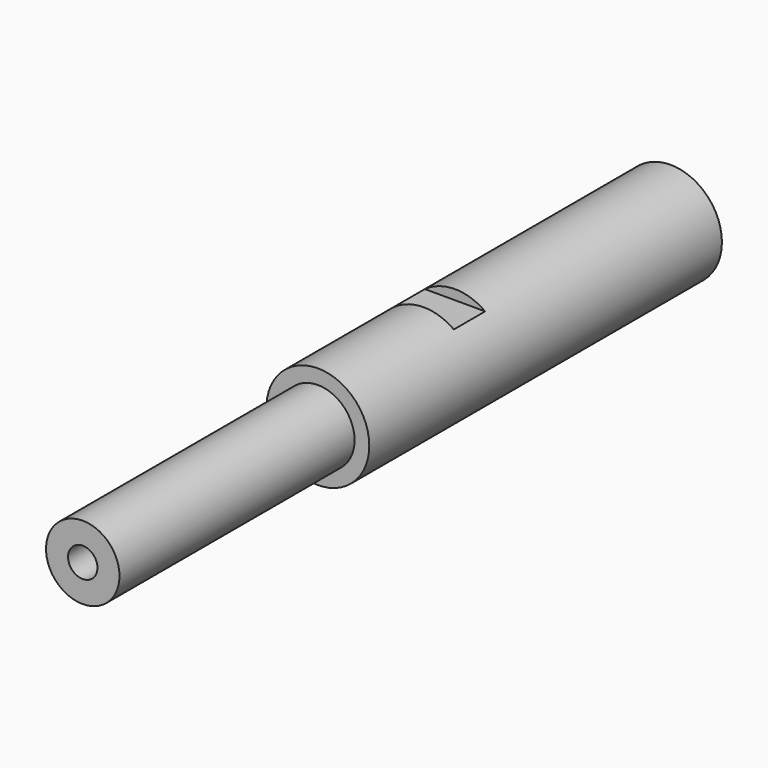
from build123d import *

# Parameters (mm, degrees)
F0_R      = 10.5
F1_DEPTH  = 90
F2_R      = 7.5
F3_DEPTH  = 60
F5_D      = 6
F6_R      = 4.75
F6_R_2    = 3
F7_DEPTH  = 50
F8_R      = 6.45
F9_DEPTH  = 21
F10_R     = 9.2
F11_DEPTH = 1.75
F12_W     = 8.1
F12_H     = 2.2
F13_DEPTH = 3.25
F15_W     = 49.0491833104
F15_H     = 8
F16_DEPTH = 2
F18_W     = 39.7552206603
F18_H     = 8
F19_DEPTH = 2
F22_D     = 3.3
F22_DEPTH = 10
F22_TIP   = 0.9914200214


with BuildPart() as f1:
    # F0 (on Front) → F1 (new body)
    with BuildSketch(Plane.XZ):
        Circle(F0_R)
    extrude(amount=F1_DEPTH)

    # F2 (on face) → F3 (join)
    with BuildSketch(Plane.XZ.offset(90)):
        Circle(F2_R)
    extrude(amount=F3_DEPTH)

    # F5 (through all)
    with Locations(Plane.XZ.offset(150)):
        with Locations((0, 0)):
            Hole(F5_D / 2)

    # F6 (on face) → F7 (cut)
    with BuildSketch(Plane(origin=(0, 0, 0), x_dir=(-1, 0, 0), z_dir=(0, 1, 0))):
        Circle(F6_R)
        Circle(F6_R_2, mode=Mode.SUBTRACT)
    extrude(amount=-F7_DEPTH, mode=Mode.SUBTRACT)

    # F8 (on face) → F9 (cut)
    with BuildSketch(Plane(origin=(0, 0, 0), x_dir=(-1, 0, 0), z_dir=(0, 1, 0))):
        Circle(F8_R)
    extrude(amount=-F9_DEPTH, mode=Mode.SUBTRACT)

    # F10 (on Front) → F11 (cut)
    with BuildSketch(Plane.XZ):
        Circle(F10_R)
    extrude(amount=F11_DEPTH, mode=Mode.SUBTRACT)

    # F12 (on Front) → F13 (cut)
    with BuildSketch(Plane.XZ):
        Polygon((1.0996337654, -1.1), (1.0996337654, 0), (1.0996337654, 1.1), (0, 1.1), (-1.1, 1.1), (-1.1, -1.1), (0, -1.1), align=None)
        Polygon((1.0996337654, 1.1), (1.0996337654, 0), (1.0996337654, -1.1), (9.2, -1.1), (9.2, 1.1), align=None)
        Polygon((0, 1.1), (1.0996337654, 1.1), (1.0996337654, 9.2), (-1.1, 9.2), (-1.1, 1.1), align=None)
        Polygon((1.0996337654, -9.2), (1.0996337654, -1.1), (0, -1.1), (-1.1, -1.1), (-1.1, -9.2), align=None)
        with Locations((-5.15, 0)):
            Rectangle(F12_W, F12_H)
    extrude(amount=F13_DEPTH, mode=Mode.SUBTRACT)

    # F15 (on offset) → F16 (cut)
    with BuildSketch(Plane.XY.offset(10.5)):
        with Locations((-2.6939958334, -59)):
            Rectangle(F15_W, F15_H)
    extrude(amount=-F16_DEPTH, mode=Mode.SUBTRACT)

    # F18 (on offset) → F19 (cut)
    with BuildSketch(Plane.XY.offset(-10.5)):
        with Locations((0.5775718018, -59)):
            Rectangle(F18_W, F18_H)
    extrude(amount=F19_DEPTH, mode=Mode.SUBTRACT)

    # F22
    with Locations(Plane(origin=(-10.5, 0, 0), x_dir=(0, 1, 0), z_dir=(-1, 0, 0))):
        with Locations((-43, 0)):
            Hole(F22_D / 2, depth=F22_DEPTH)
            with Locations((0, 0, -(F22_DEPTH + F22_TIP / 2))):  # 118° drill point
                Cone(0, F22_D / 2, F22_TIP, mode=Mode.SUBTRACT)


solid = f1.part
